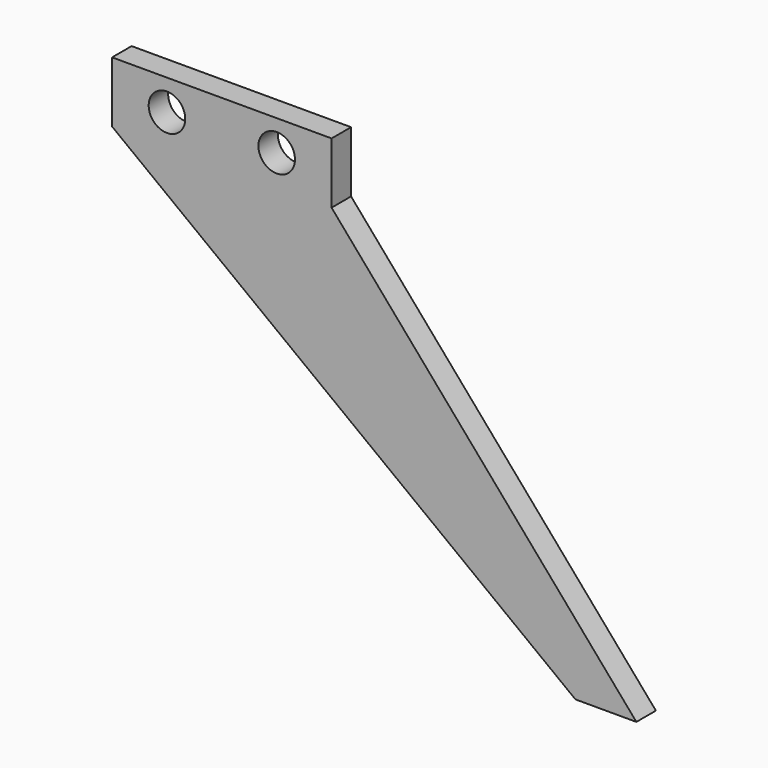
from build123d import *

# Parameters (mm, degrees)
F0_W     = 18
F0_H     = 5
F0_R     = 1.5
F1_DEPTH = 2


with BuildPart() as f1:
    # F0 (on Front) → F1 (new body)
    with BuildSketch(Plane.XZ):
        Rectangle(F0_W, F0_H)
        with Locations((-4.5, 0)):
            Circle(F0_R, mode=Mode.SUBTRACT)
        with Locations((4.5, 0)):
            Circle(F0_R, mode=Mode.SUBTRACT)
        Polygon((34, -31.5), (9, -2.5), (-9, -2.5), (29, -31.5), align=None)
    extrude(amount=F1_DEPTH)


solid = f1.part
